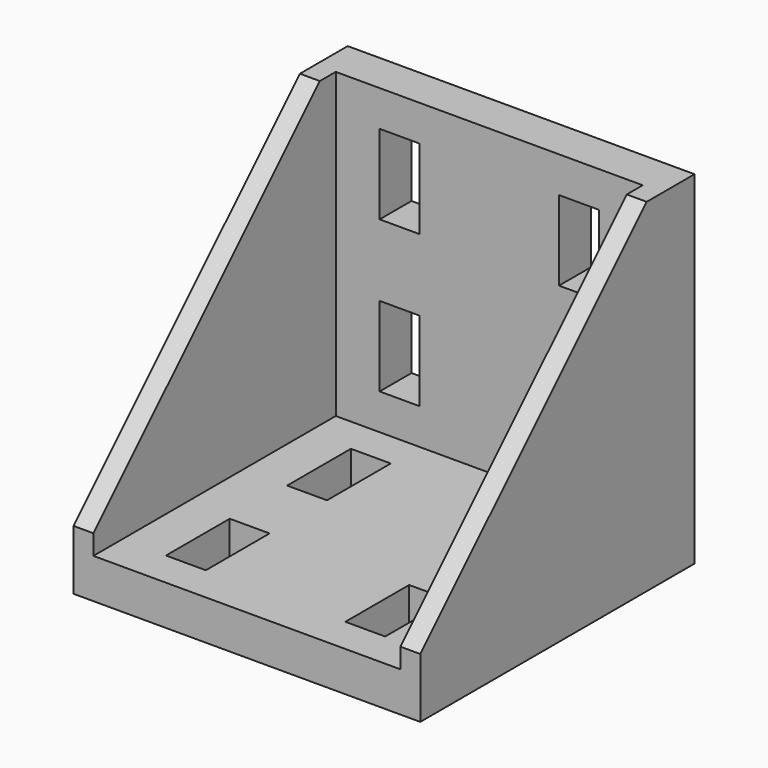
from build123d import *

# Parameters (mm, degrees)
F0_W      = 87
F0_H      = 86
F1_DEPTH  = 10
F2_W      = 87
F2_H      = 10
F3_DEPTH  = 76
F5_DEPTH  = 5
F7_DEPTH  = 5
F8_W      = 10
F8_H      = 19.999996
F8_H_2    = 20
F9_DEPTH  = 25
F10_W     = 10
F10_H     = 19.999996
F10_H_2   = 20
F11_DEPTH = 25


with BuildPart() as f1:
    # F0 (on Front) → F1 (new body)
    with BuildSketch(Plane.XZ):
        with Locations((43.5, 43)):
            Rectangle(F0_W, F0_H)
    extrude(amount=F1_DEPTH)

    # F2 (on face) → F3 (join)
    with BuildSketch(Plane.XZ.offset(10)):
        with Locations((43.5, 5)):
            Rectangle(F2_W, F2_H)
    extrude(amount=F3_DEPTH)

    # F4 (on face) → F5 (join)
    with BuildSketch(Plane.YZ.offset(87)):
        Polygon((-86, 15), (-86, 10), (-10, 10), (-10, 86), (-15, 86), align=None)
    extrude(amount=-F5_DEPTH)

    # F6 (on face) → F7 (join)
    with BuildSketch(Plane(origin=(0, 0, 0), x_dir=(0, -1, 0), z_dir=(-1, 0, 0))):
        Polygon((15, 86), (10, 86), (10, 10), (86, 10), (86, 15), align=None)
    extrude(amount=-F7_DEPTH)

    # F8 (on face) → F9 (cut)
    with BuildSketch(Plane.XZ.offset(10)):
        with Locations((21, 66.999998)):
            Rectangle(F8_W, F8_H)
        with Locations((21, 29)):
            Rectangle(F8_W, F8_H_2)
        with Locations((66, 66.999996)):
            Rectangle(F8_W, F8_H_2)
        with Locations((66, 29)):
            Rectangle(F8_W, F8_H_2)
    extrude(amount=-F9_DEPTH, mode=Mode.SUBTRACT)

    # F10 (on face) → F11 (cut)
    with BuildSketch(Plane.XY.offset(10)):
        with Locations((21, -29.000002)):
            Rectangle(F10_W, F10_H)
        with Locations((66, -29.000004)):
            Rectangle(F10_W, F10_H_2)
        with Locations((66, -67)):
            Rectangle(F10_W, F10_H_2)
        with Locations((21, -67)):
            Rectangle(F10_W, F10_H_2)
    extrude(amount=-F11_DEPTH, mode=Mode.SUBTRACT)


solid = f1.part
